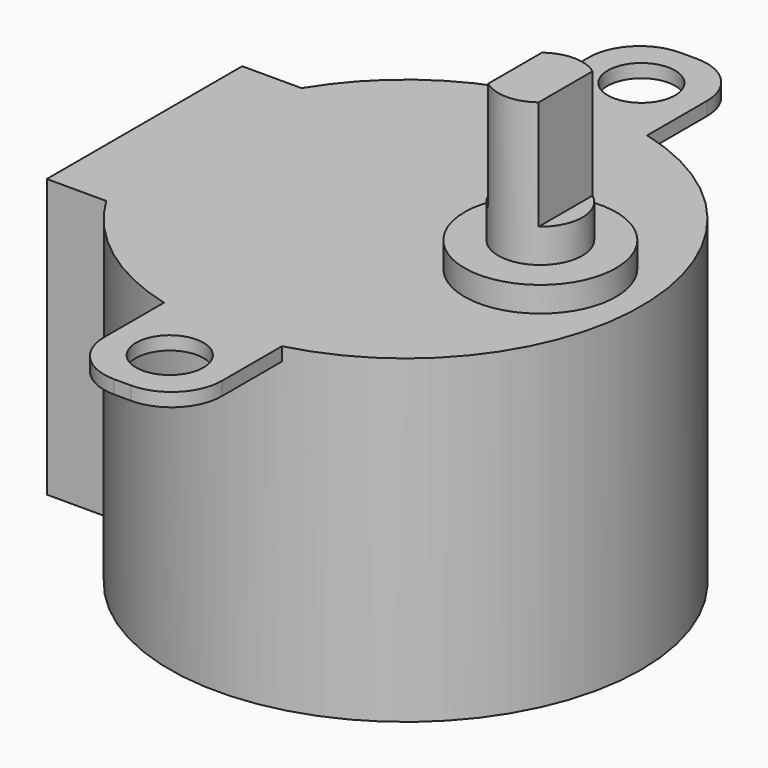
from build123d import *

# Parameters (mm, degrees)
CYLINDER012_R             = 2
CYLINDER012_DEPTH         = 20
CYLINDER011_R             = 2
CYLINDER011_DEPTH         = 20
CYLINDER014_R             = 4.5
CYLINDER014_DEPTH         = 19.5
BOX009_W                  = 7
BOX009_H                  = 42
BOX009_DEPTH              = 0.8
FILLET008_R               = 3
FILLET009_R               = 3
FILLET010_R               = 3
FILLET011_R               = 3
BOX008_W                  = 10
BOX008_H                  = 14.5
BOX008_DEPTH              = 16.5
CYLINDER010_R             = 14
CYLINDER010_DEPTH         = 19
BOX010_W                  = 10
BOX010_H                  = 10
BOX010_DEPTH              = 10
BOX011_W                  = 10
BOX011_H                  = 10
BOX011_DEPTH              = 10
CYLINDER013_R             = 2.5
CYLINDER013_DEPTH         = 28
FUSION011_PLACEMENT_ANGLE = 180


with BuildPart() as cylinder012:
    # Cylinder012 → Cylinder012 (new body)
    with BuildSketch(Plane(origin=(0, -17.5, 14), x_dir=(1, 0, 0), z_dir=(0, 0, 1))):
        Circle(CYLINDER012_R)
    extrude(amount=CYLINDER012_DEPTH)


with BuildPart() as cylinder011:
    # Cylinder011 → Cylinder011 (new body)
    with BuildSketch(Plane(origin=(0, 17.5, 14), x_dir=(1, 0, 0), z_dir=(0, 0, 1))):
        Circle(CYLINDER011_R)
    extrude(amount=CYLINDER011_DEPTH)


with BuildPart() as shaft_boss002:
    # Cylinder014 → Cylinder014 (new body)
    with BuildSketch(Plane(origin=(-8, 0, 1), x_dir=(1, 0, 0), z_dir=(0, 0, 1))):
        Circle(CYLINDER014_R)
    extrude(amount=CYLINDER014_DEPTH)


with BuildPart() as fillet011:
    # Box009 → Box009 (new body)
    with BuildSketch(Plane(origin=(-3.5, -21, 18.2), x_dir=(1, 0, 0), z_dir=(0, 0, 1))):
        with Locations((3.5, 21)):
            Rectangle(BOX009_W, BOX009_H)
    extrude(amount=BOX009_DEPTH)

    # Fillet008
    fillet008_edges = [fillet011.edges().sort_by_distance(p)[0] for p in [
        (3.5, -21, 18.6),
    ]]
    fillet(fillet008_edges, radius=FILLET008_R)

    # Fillet009
    fillet009_edges = [fillet011.edges().sort_by_distance(p)[0] for p in [
        (-3.5, -21, 18.6),
    ]]
    fillet(fillet009_edges, radius=FILLET009_R)

    # Fillet010
    fillet010_edges = [fillet011.edges().sort_by_distance(p)[0] for p in [
        (-3.5, 21, 18.6),
    ]]
    fillet(fillet010_edges, radius=FILLET010_R)

    # Fillet011
    fillet011_edges = [fillet011.edges().sort_by_distance(p)[0] for p in [
        (3.5, 21, 18.6),
    ]]
    fillet(fillet011_edges, radius=FILLET011_R)


with BuildPart() as cube008:
    # Box008 → Box008 (new body)
    with BuildSketch(Plane(origin=(5.5, -7.25, 2.5), x_dir=(1, 0, 0), z_dir=(0, 0, 1))):
        with Locations((5, 7.25)):
            Rectangle(BOX008_W, BOX008_H)
    extrude(amount=BOX008_DEPTH)


with BuildPart() as motor_body002:
    # Cylinder010 → Cylinder010 (new body)
    with BuildSketch(Plane.XY):
        Circle(CYLINDER010_R)
    extrude(amount=CYLINDER010_DEPTH)

    # Fusion008: union Cube008
    add(cube008.part)

    # Fusion009: union Fillet011
    add(fillet011.part)

    # Fusion010: union shaft-boss002
    add(shaft_boss002.part)

    # Cut010: cut Cylinder011
    add(cylinder011.part, mode=Mode.SUBTRACT)

    # Cut011: cut Cylinder012
    add(cylinder012.part, mode=Mode.SUBTRACT)


with BuildPart() as cube010:
    # Box010 → Box010 (new body)
    with BuildSketch(Plane(origin=(-6.5, -5, 22.5), x_dir=(1, 0, 0), z_dir=(0, 0, 1))):
        with Locations((5, 5)):
            Rectangle(BOX010_W, BOX010_H)
    extrude(amount=BOX010_DEPTH)


with BuildPart() as cube011:
    # Box011 → Box011 (new body)
    with BuildSketch(Plane(origin=(-19.5, -5, 22.5), x_dir=(1, 0, 0), z_dir=(0, 0, 1))):
        with Locations((5, 5)):
            Rectangle(BOX011_W, BOX011_H)
    extrude(amount=BOX011_DEPTH)


with BuildPart() as obj1:
    # Cylinder013 → Cylinder013 (new body)
    with BuildSketch(Plane(origin=(-8, 0, 1), x_dir=(1, 0, 0), z_dir=(0, 0, 1))):
        Circle(CYLINDER013_R)
    extrude(amount=CYLINDER013_DEPTH)

    # Cut008: cut Cube011
    add(cube011.part, mode=Mode.SUBTRACT)

    # Cut009: cut Cube010
    add(cube010.part, mode=Mode.SUBTRACT)

    # Fusion011: union motor-body002
    add(motor_body002.part)


with BuildPart() as obj1_1:
    # Fusion011 placement: moved
    add(obj1.part.moved(Location((-8.1, 7, 7))).rotate(Axis((-8.1, 7, 7), (0, 0, 1)), FUSION011_PLACEMENT_ANGLE))


solid = obj1_1.part
